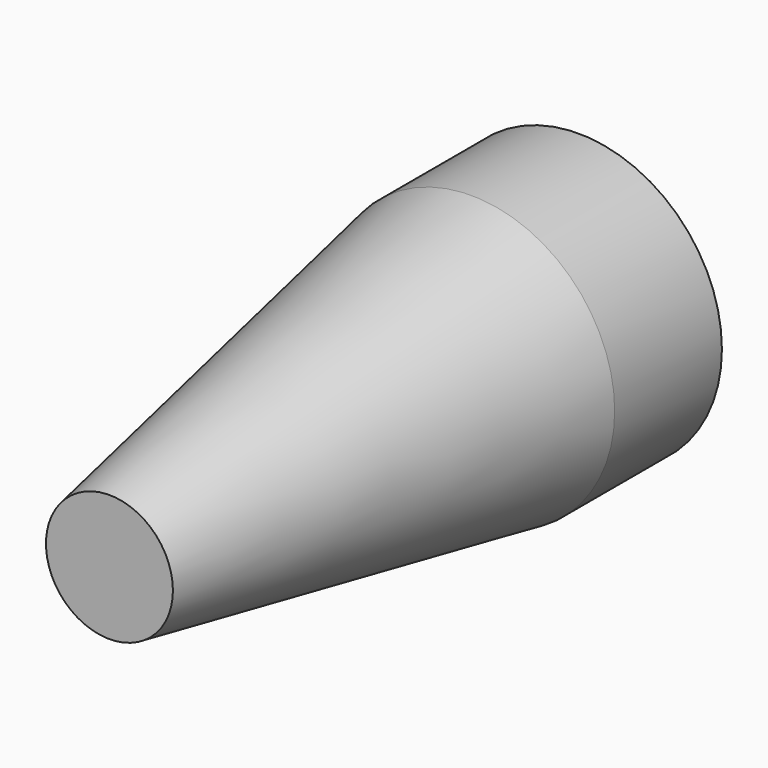
from build123d import *

# Parameters (mm, degrees)
F0_R          = 43.1861559917
F1_DEPTH      = 136.4042982459
F1_TAPER      = 10
F1_DEPTH_BACK = 40.4152404517


with BuildPart() as f1:
    # F0 (on Front) → F1 (new body, two sides)
    with BuildSketch(Plane.XZ) as f1_sk:
        with Locations((-10.8377635479, 28.3313840628)):
            Circle(F0_R)
    extrude(amount=F1_DEPTH, taper=F1_TAPER)
    extrude(f1_sk.sketch, amount=-F1_DEPTH_BACK)


solid = f1.part
